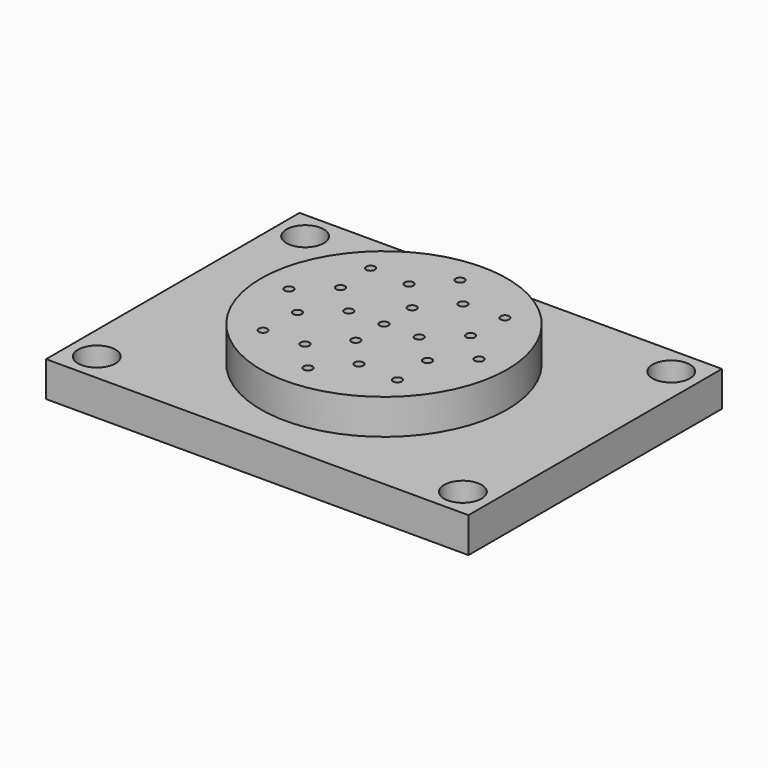
from build123d import *

# Parameters (mm, degrees)
F0_W     = 76.2
F0_H     = 57.15
F1_DEPTH = 6.35
F2_R     = 22.225
F3_DEPTH = 6.35
F5_D     = 6.7564
F7_D     = 1.5875
F7_DEPTH = 6.35
F7_TIP   = 0.4769331164


with BuildPart() as f1:
    # F0 (on Top) → F1 (new body)
    with BuildSketch(Plane.XY):
        with Locations((38.1, 28.575)):
            Rectangle(F0_W, F0_H)
    extrude(amount=F1_DEPTH)

    # F2 (on face) → F3 (join)
    with BuildSketch(Plane.XY.offset(6.35)):
        with Locations((38.1, 28.575)):
            Circle(F2_R)
    extrude(amount=F3_DEPTH)

    # F5 (through all)
    with Locations(Plane.XY.offset(6.35)):
        with Locations((5.08, 5.08), (5.08, 52.07), (71.12, 52.07), (71.12, 5.08)):
            Hole(F5_D / 2)

    # F7
    with Locations(Plane.XY.offset(12.7)):
        with Locations((38.1, 45.72), (25.9766542366, 40.6983457634), (20.955, 28.575), (25.9766542366, 16.4516542366), (38.1, 11.43), (50.2233457634, 16.4516542366), (55.245, 28.575), (50.2233457634, 40.6983457634), (42.960079591, 40.3082700629), (33.239920409, 40.3082700629), (26.3667299371, 33.435079591), (26.3667299371, 23.714920409), (33.239920409, 16.8417299371), (42.960079591, 16.8417299371), (49.8332700629, 23.714920409), (49.8332700629, 33.435079591), (38.1, 34.925), (31.75, 28.575), (38.1, 22.225), (44.45, 28.575), (38.1, 28.575)):
            Hole(F7_D / 2, depth=F7_DEPTH)
            with Locations((0, 0, -(F7_DEPTH + F7_TIP / 2))):  # 118° drill point
                Cone(0, F7_D / 2, F7_TIP, mode=Mode.SUBTRACT)


solid = f1.part
